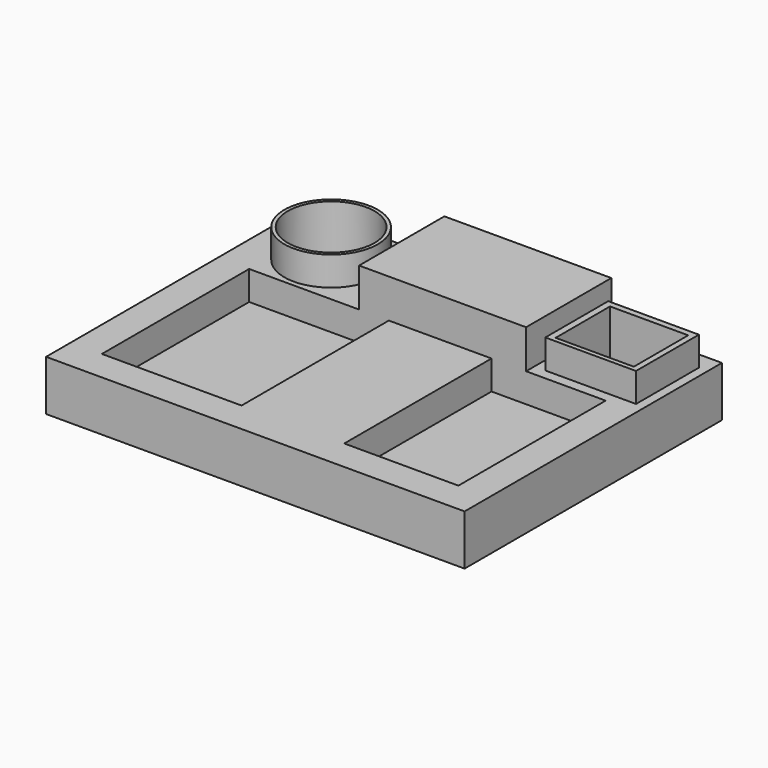
from build123d import *

# Parameters (mm, degrees)
F0_W      = 216
F0_H      = 166
F1_DEPTH  = 26
F2_W      = 184
F2_H      = 95
F3_DEPTH  = 15
F4_W      = 86.176178
F4_H      = 55
F5_DEPTH  = 20
F6_W      = 53.007906
F6_H      = 95
F7_DEPTH  = 15
F8_R      = 24.127346
F9_DEPTH  = 15
F10_R     = 22.341692
F11_DEPTH = 25
F12_W     = 46.807702
F12_H     = 40.58332
F13_DEPTH = 15
F14_W     = 40.349298
F14_H     = 35.074882
F15_DEPTH = 25


with BuildPart() as f1:
    # F0 (on Top) → F1 (new body)
    with BuildSketch(Plane.XY):
        with Locations((-35.592673, 44.704702)):
            Rectangle(F0_W, F0_H)
    extrude(amount=F1_DEPTH)

    # F2 (on face) → F3 (cut)
    with BuildSketch(Plane.XY.offset(26)):
        with Locations((-35.592673, 25.204702)):
            Rectangle(F2_W, F2_H)
    extrude(amount=-F3_DEPTH, mode=Mode.SUBTRACT)

    # F4 (on face) → F5 (join)
    with BuildSketch(Plane.XY.offset(26)):
        with Locations((-27.75256, 100.204702)):
            Rectangle(F4_W, F4_H)
    extrude(amount=F5_DEPTH)

    # F6 (on face) → F7 (join)
    with BuildSketch(Plane.XY.offset(11)):
        with Locations((-28.99965, 25.204702)):
            Rectangle(F6_W, F6_H)
    extrude(amount=F7_DEPTH)

    # F8 (on face) → F9 (join)
    with BuildSketch(Plane.XY.offset(26)):
        with Locations((-106.665462, 99.426791)):
            Circle(F8_R)
    extrude(amount=F9_DEPTH)

    # F10 (on face) → F11 (cut)
    with BuildSketch(Plane.XY.offset(41)):
        with Locations((-106.665462, 99.426791)):
            Circle(F10_R)
    extrude(amount=-F11_DEPTH, mode=Mode.SUBTRACT)

    # F12 (on face) → F13 (join)
    with BuildSketch(Plane.XY.offset(26)):
        with Locations((44.370124, 98.360058)):
            Rectangle(F12_W, F12_H)
    extrude(amount=F13_DEPTH)

    # F14 (on face) → F15 (cut)
    with BuildSketch(Plane.XY.offset(41)):
        with Locations((44.578489, 97.976323)):
            Rectangle(F14_W, F14_H)
    extrude(amount=-F15_DEPTH, mode=Mode.SUBTRACT)


solid = f1.part
